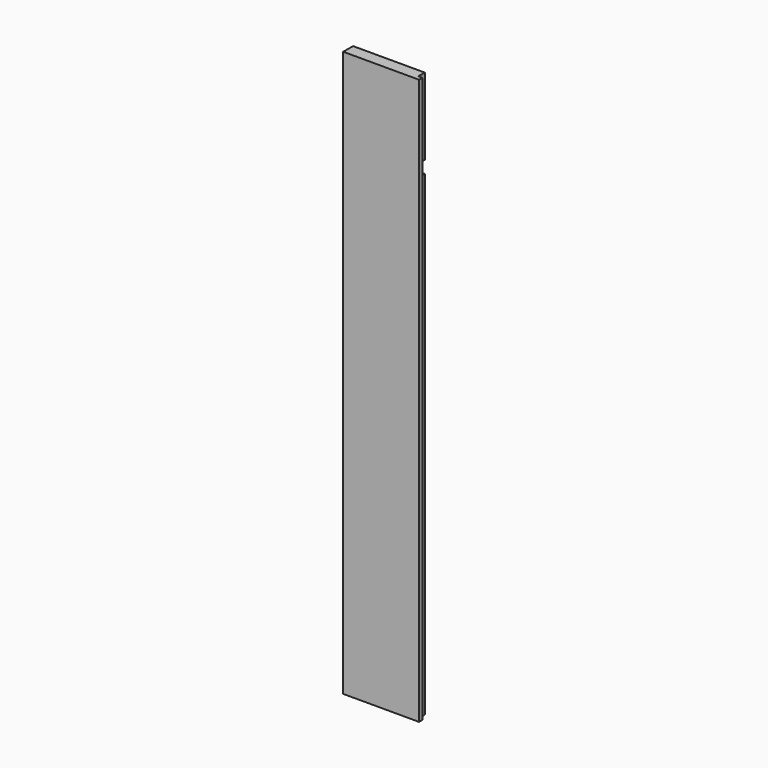
from build123d import *

# Parameters (mm, degrees)
F0_W     = 117.475
F0_H     = 438.15
F1_DEPTH = 9.525
F2_W     = 117.475
F2_H     = 19.05
F3_DEPTH = 6.35
F4_W     = 6.35
F4_H     = 138.1125
F4_H_2   = 738.1875
F5_DEPTH = 12.7


with BuildPart() as f1:
    # F0 (on Front) → F1 (new body, symmetric)
    with BuildSketch(Plane.XZ):
        with Locations((-189.1664953259, 219.075)):
            Rectangle(F0_W, F0_H)
        with Locations((-189.1664953259, -219.075)):
            Rectangle(F0_W, F0_H)
    extrude(amount=F1_DEPTH, both=True)

    # F2 (on face) → F3 (cut)
    with BuildSketch(Plane(origin=(0, 9.525, 0), x_dir=(-1, 0, 0), z_dir=(0, 1, 0))):
        with Locations((189.1664953259, 309.5625)):
            Rectangle(F2_W, F2_H)
    extrude(amount=-F3_DEPTH, mode=Mode.SUBTRACT)

    # F4 (on face) → F5 (cut)
    with BuildSketch(Plane(origin=(0, 9.525, 0), x_dir=(-1, 0, 0), z_dir=(0, 1, 0))):
        with Locations((133.6039953259, 369.09375)):
            Rectangle(F4_W, F4_H)
        with Locations((133.6039953259, -69.05625)):
            Rectangle(F4_W, F4_H_2)
    extrude(amount=-F5_DEPTH, mode=Mode.SUBTRACT)


solid = f1.part
